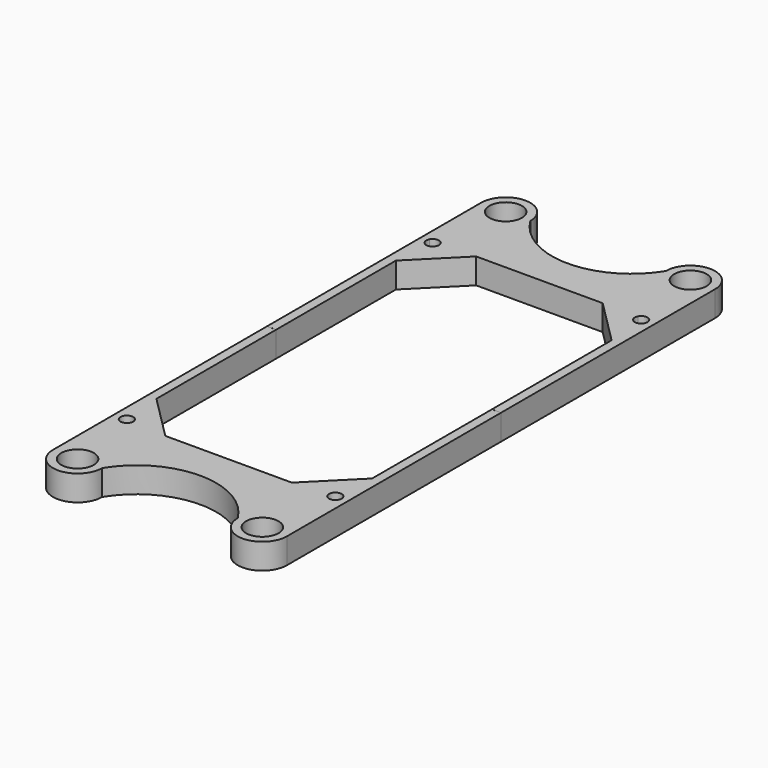
from build123d import *

# Parameters (mm, degrees)
F1_DEPTH = 1
F0_R     = 2.55
F2_DEPTH = 4


with BuildPart() as f1:
    # F0 (on Top) → F1 (new body)
    with BuildSketch(Plane.XY):
        with BuildLine():
            Line((-16.928318, 23.495577), (-9.929332, 30.496591))
            Line((-9.929332, 30.496591), (-15.49595, 30.496591))
            ThreePointArc((-15.49595, 30.496591), (-15.397502, 30.25692), (-15.363935, 30))
            ThreePointArc((-15.363935, 30), (-16.620854, 29.033567), (-17.231919, 30.496591))
            Line((-17.231919, 30.496591), (-18.363935, 30.496591))
            Line((-18.363935, 30.496591), (-18.363935, 0.003409))
            Line((-18.363935, 0.003409), (-16.928318, 0))
            Line((-16.928318, 0), (-16.928318, 23.495577))
        make_face()
        with BuildLine():
            Line((-16.928318, -23.495577), (-16.928318, 0))
            Line((-16.928318, 0), (-18.363935, -0.003409))
            Line((-18.363935, -0.003409), (-18.363935, -30.496591))
            Line((-18.363935, -30.496591), (-17.231919, -30.496591))
            ThreePointArc((-17.231919, -30.496591), (-16.620854, -29.033567), (-15.363935, -30))
            ThreePointArc((-15.363935, -30), (-15.397502, -30.25692), (-15.49595, -30.496591))
            Line((-15.49595, -30.496591), (-9.929332, -30.496591))
            Line((-9.929332, -30.496591), (-16.928318, -23.495577))
        make_face()
        with BuildLine():
            Line((15.49595, 30.496591), (9.929332, 30.496591))
            Line((9.929332, 30.496591), (16.928318, 23.495577))
            Line((16.928318, 23.495577), (16.928318, 0))
            Line((16.928318, 0), (18.363935, 0.003409))
            Line((18.363935, 0.003409), (18.363935, 30.496591))
            Line((18.363935, 30.496591), (17.231919, 30.496591))
            ThreePointArc((17.231919, 30.496591), (17.330367, 30.25692), (17.363935, 30))
            ThreePointArc((17.363935, 30), (16.107015, 29.033567), (15.49595, 30.496591))
        make_face()
        with BuildLine():
            Line((18.363935, -0.003409), (16.928318, 0))
            Line((16.928318, 0), (16.928318, -23.495577))
            Line((16.928318, -23.495577), (9.929332, -30.496591))
            Line((9.929332, -30.496591), (15.49595, -30.496591))
            ThreePointArc((15.49595, -30.496591), (16.107015, -29.033567), (17.363935, -30))
            ThreePointArc((17.363935, -30), (17.330367, -30.25692), (17.231919, -30.496591))
            Line((17.231919, -30.496591), (18.363935, -30.496591))
            Line((18.363935, -30.496591), (18.363935, -0.003409))
        make_face()
    extrude(amount=F1_DEPTH)


with BuildPart() as f2:
    # F0 (on Top) → F2 (new body)
    with BuildSketch(Plane.XY):
        with BuildLine():
            Line((0, 30.496591), (9.929332, 30.496591))
            Line((9.929332, 30.496591), (15.49595, 30.496591))
            ThreePointArc((15.49595, 30.496591), (16.363935, 31), (17.231919, 30.496591))
            Line((17.231919, 30.496591), (18.363935, 30.496591))
            Line((18.363935, 30.496591), (18.363935, 42))
            ThreePointArc((18.363935, 42), (14.5, 45.863935), (10.636065, 42))
            ThreePointArc((10.636065, 42), (0, 36.051413), (-10.636065, 42))
            ThreePointArc((-10.636065, 42), (-14.5, 45.863935), (-18.363935, 42))
            Line((-18.363935, 42), (-18.363935, 30.496591))
            Line((-18.363935, 30.496591), (-17.231919, 30.496591))
            ThreePointArc((-17.231919, 30.496591), (-16.363935, 31), (-15.49595, 30.496591))
            Line((-15.49595, 30.496591), (-9.929332, 30.496591))
            Line((-9.929332, 30.496591), (0, 30.496591))
        make_face()
        with Locations((-14.5, 42)):
            Circle(F0_R, mode=Mode.SUBTRACT)
        with Locations((14.5, 42)):
            Circle(F0_R, mode=Mode.SUBTRACT)
        with BuildLine():
            Line((18.363935, -42), (18.363935, -30.496591))
            Line((18.363935, -30.496591), (17.231919, -30.496591))
            ThreePointArc((17.231919, -30.496591), (16.363935, -31), (15.49595, -30.496591))
            Line((15.49595, -30.496591), (9.929332, -30.496591))
            Line((9.929332, -30.496591), (0, -30.496591))
            Line((0, -30.496591), (-9.929332, -30.496591))
            Line((-9.929332, -30.496591), (-15.49595, -30.496591))
            ThreePointArc((-15.49595, -30.496591), (-16.363935, -31), (-17.231919, -30.496591))
            Line((-17.231919, -30.496591), (-18.363935, -30.496591))
            Line((-18.363935, -30.496591), (-18.363935, -42))
            ThreePointArc((-18.363935, -42), (-14.5, -45.863935), (-10.636065, -42))
            ThreePointArc((-10.636065, -42), (0, -36.051413), (10.636065, -42))
            ThreePointArc((10.636065, -42), (14.5, -45.863935), (18.363935, -42))
        make_face()
        with Locations((-14.5, -42)):
            Circle(F0_R, mode=Mode.SUBTRACT)
        with Locations((14.5, -42)):
            Circle(F0_R, mode=Mode.SUBTRACT)
        with BuildLine():
            Line((15.49595, 30.496591), (9.929332, 30.496591))
            Line((9.929332, 30.496591), (16.928318, 23.495577))
            Line((16.928318, 23.495577), (16.928318, 0))
            Line((16.928318, 0), (18.363935, 0.003409))
            Line((18.363935, 0.003409), (18.363935, 30.496591))
            Line((18.363935, 30.496591), (17.231919, 30.496591))
            ThreePointArc((17.231919, 30.496591), (17.330367, 30.25692), (17.363935, 30))
            ThreePointArc((17.363935, 30), (16.107015, 29.033567), (15.49595, 30.496591))
        make_face()
        with BuildLine():
            Line((-16.928318, 23.495577), (-9.929332, 30.496591))
            Line((-9.929332, 30.496591), (-15.49595, 30.496591))
            ThreePointArc((-15.49595, 30.496591), (-15.397502, 30.25692), (-15.363935, 30))
            ThreePointArc((-15.363935, 30), (-16.620854, 29.033567), (-17.231919, 30.496591))
            Line((-17.231919, 30.496591), (-18.363935, 30.496591))
            Line((-18.363935, 30.496591), (-18.363935, 0.003409))
            Line((-18.363935, 0.003409), (-16.928318, 0))
            Line((-16.928318, 0), (-16.928318, 23.495577))
        make_face()
        with BuildLine():
            Line((18.363935, -0.003409), (16.928318, 0))
            Line((16.928318, 0), (16.928318, -23.495577))
            Line((16.928318, -23.495577), (9.929332, -30.496591))
            Line((9.929332, -30.496591), (15.49595, -30.496591))
            ThreePointArc((15.49595, -30.496591), (16.107015, -29.033567), (17.363935, -30))
            ThreePointArc((17.363935, -30), (17.330367, -30.25692), (17.231919, -30.496591))
            Line((17.231919, -30.496591), (18.363935, -30.496591))
            Line((18.363935, -30.496591), (18.363935, -0.003409))
        make_face()
        with BuildLine():
            Line((-16.928318, -23.495577), (-16.928318, 0))
            Line((-16.928318, 0), (-18.363935, -0.003409))
            Line((-18.363935, -0.003409), (-18.363935, -30.496591))
            Line((-18.363935, -30.496591), (-17.231919, -30.496591))
            ThreePointArc((-17.231919, -30.496591), (-16.620854, -29.033567), (-15.363935, -30))
            ThreePointArc((-15.363935, -30), (-15.397502, -30.25692), (-15.49595, -30.496591))
            Line((-15.49595, -30.496591), (-9.929332, -30.496591))
            Line((-9.929332, -30.496591), (-16.928318, -23.495577))
        make_face()
    extrude(amount=F2_DEPTH)


solid = Compound([f1.part, f2.part])
